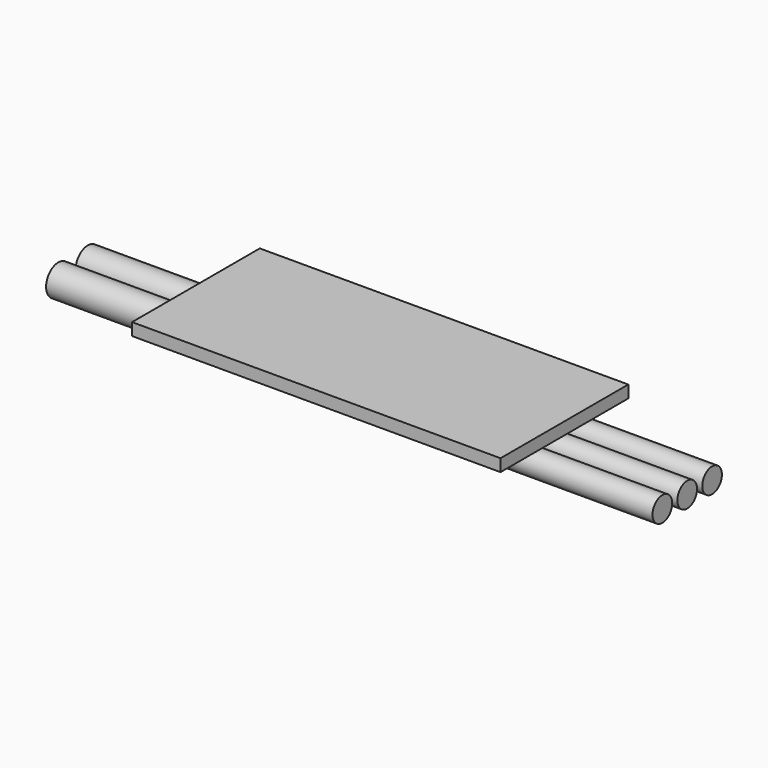
from build123d import *

# Parameters (mm, degrees)
F0_W          = 30
F0_H          = 13
F1_DEPTH      = 1
F2_R          = 1
F3_DEPTH      = 10
F3_DEPTH_BACK = 5
F4_R          = 1.25
F5_DEPTH      = 10
F5_DEPTH_BACK = 5


with BuildPart() as f1:
    # F0 (on Top) → F1 (new body)
    with BuildSketch(Plane.XY):
        Rectangle(F0_W, F0_H)
    extrude(amount=F1_DEPTH)


with BuildPart() as f3:
    # F2 (on face) → F3 (new body, two sides)
    with BuildSketch(Plane.YZ.offset(15)) as f3_sk:
        with Locations((-2.53274, -1)):
            Circle(F2_R)
        with Locations((0, -1)):
            Circle(F2_R)
        with Locations((2.53274, -1)):
            Circle(F2_R)
    extrude(amount=F3_DEPTH)
    extrude(f3_sk.sketch, amount=-F3_DEPTH_BACK)


with BuildPart() as f5:
    # F4 (on face) → F5 (new body, two sides)
    with BuildSketch(Plane(origin=(-15, 0, 0), x_dir=(0, -1, 0), z_dir=(-1, 0, 0))) as f5_sk:
        with Locations((-1.5, -1.25)):
            Circle(F4_R)
        with Locations((1.5, -1.25)):
            Circle(F4_R)
    extrude(amount=F5_DEPTH)
    extrude(f5_sk.sketch, amount=-F5_DEPTH_BACK)


solid = Compound([f1.part, f3.part, f5.part])
